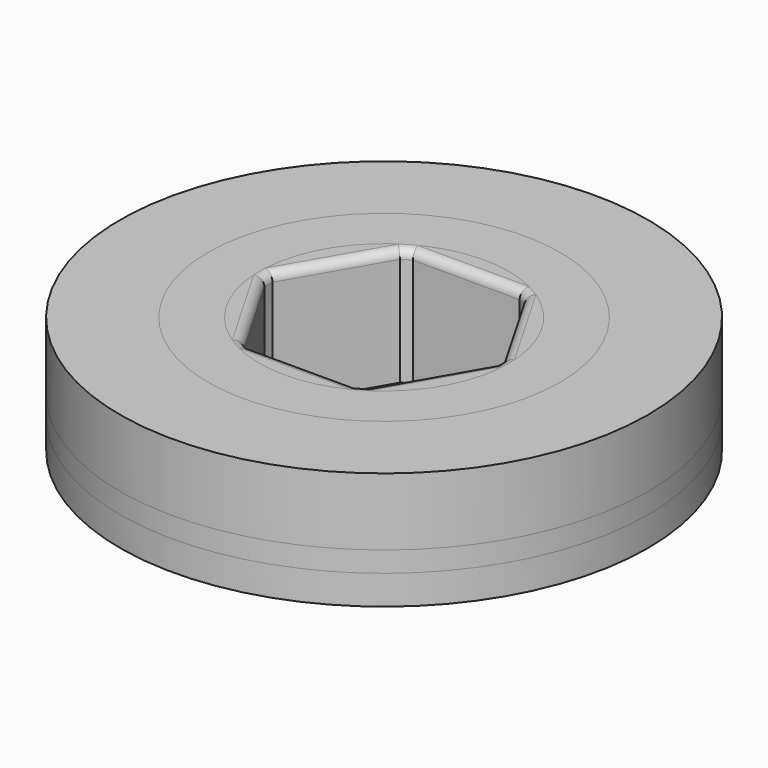
from build123d import *

# Parameters (mm, degrees)
SKETCH_R           = 9
PAD_DEPTH          = 4
FILLET_R           = 0.3
SKETCH001_R        = 9
SKETCH001_R_2      = 5.1
PAD001_DEPTH       = 2.7
PAD002_DEPTH       = 2.7
POLARPATTERN_COUNT = 8
FILLET001_R        = 0.4
CHAMFER_SIZE       = 1
SKETCH003_R        = 9
SKETCH003_R_2      = 3.95
PAD003_DEPTH       = 4
FILLET002_R        = 0.3
CHAMFER001_SIZE    = 3


with BuildPart() as bare:
    # Sketch → Pad (new body)
    with BuildSketch(Plane.XY):
        Circle(SKETCH_R)
        Polygon((2.020726, -3.5), (4.041452, 0), (2.020726, 3.5), (-2.020726, 3.5), (-4.041452, 0), (-2.020726, -3.5), align=None, mode=Mode.SUBTRACT)
    extrude(amount=PAD_DEPTH)

    # Fillet
    fillet_edges = [bare.edges().sort_by_distance(p)[0] for p in [
        (0, 3.5, 4),
        (-3.031089, 1.75, 4),
        (-3.031089, -1.75, 4),
        (0, -3.5, 4),
        (3.031089, -1.75, 4),
        (3.031089, 1.75, 4),
    ]]
    fillet(fillet_edges, radius=FILLET_R)


with BuildPart() as v5cover:
    # Sketch001 → Pad001 (new body)
    with BuildSketch(Plane.XY):
        Circle(SKETCH001_R)
        Circle(SKETCH001_R_2, mode=Mode.SUBTRACT)
    extrude(amount=PAD001_DEPTH)

    # Sketch002 → Pad002 (join)
    with BuildSketch(Plane.XY):
        with BuildLine():
            ThreePointArc((-0.310642, 4.958207), (0, 4.85), (0.310642, 4.958207))
            ThreePointArc((0.665684, 5.056369), (0.478197, 5.043332), (0.310642, 4.958207))
            ThreePointArc((0.665684, 5.056369), (0, 5.1), (-0.665684, 5.056369))
            ThreePointArc((-0.310642, 4.958207), (-0.478197, 5.043332), (-0.665684, 5.056369))
        make_face()
    pad002 = extrude(amount=PAD002_DEPTH)

    # PolarPattern: Pad002 ×8 about axis
    polarpattern_axis = Axis((0, 0, 0), (0, 0, 1))
    for i in range(1, POLARPATTERN_COUNT):
        add(pad002.rotate(polarpattern_axis, i * 360 / POLARPATTERN_COUNT))

    # Fillet001
    fillet001_edges = [v5cover.edges().sort_by_distance(p)[0] for p in [
        (1.951686, -4.711786, 2.7),
    ]]
    fillet(fillet001_edges, radius=FILLET001_R)

    # Chamfer
    chamfer_edges = [v5cover.edges().sort_by_distance(p)[0] for p in [
        (-9, 0, 2.7),
    ]]
    chamfer(chamfer_edges, length=CHAMFER_SIZE)


with BuildPart() as round:
    # Sketch003 → Pad003 (new body)
    with BuildSketch(Plane.XY):
        Circle(SKETCH003_R)
        Circle(SKETCH003_R_2, mode=Mode.SUBTRACT)
    extrude(amount=PAD003_DEPTH)

    # Fillet002
    fillet002_edges = [round.edges().sort_by_distance(p)[0] for p in [
        (-3.95, 0, 4),
    ]]
    fillet(fillet002_edges, radius=FILLET002_R)

    # Chamfer001
    chamfer001_edges = [round.edges().sort_by_distance(p)[0] for p in [
        (-9, 0, 4),
    ]]
    chamfer(chamfer001_edges, length=CHAMFER001_SIZE)


solid = Compound([bare.part, v5cover.part, round.part])
